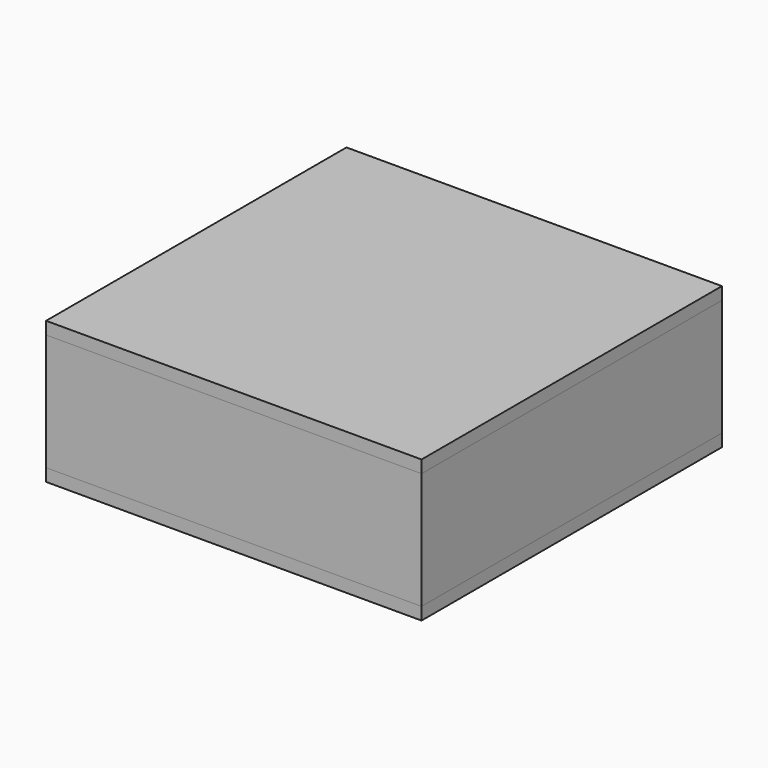
from build123d import *

# Parameters (mm, degrees)
F0_W     = 71.4375
F0_H     = 22.225
F1_DEPTH = 71.4375
F2_W     = 71.4375
F2_H     = 2.38125
F3_DEPTH = 71.4375
F4_DEPTH = 71.4375


with BuildPart() as f1:
    # F0 (on Front) → F1 (new body)
    with BuildSketch(Plane.XZ):
        with Locations((35.71875, 11.1125)):
            Rectangle(F0_W, F0_H)
    extrude(amount=F1_DEPTH)


with BuildPart() as f3:
    # F2 (on Front) → F3 (new body)
    with BuildSketch(Plane.XZ):
        with Locations((35.71875, 23.415625)):
            Rectangle(F2_W, F2_H)
    extrude(amount=F3_DEPTH)


with BuildPart() as f4:
    # F2 (on Front) → F4 (new body)
    with BuildSketch(Plane.XZ):
        with Locations((35.71875, -1.190625)):
            Rectangle(F2_W, F2_H)
    extrude(amount=F4_DEPTH)


solid = Compound([f1.part, f3.part, f4.part])
